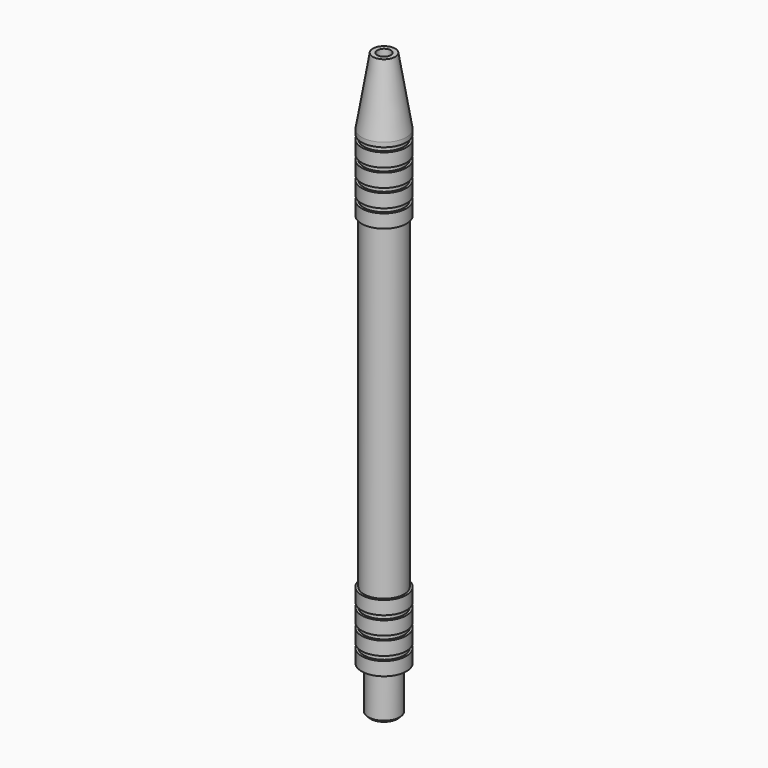
from build123d import *

# Parameters (mm, degrees)
F2_R     = 1.5
F3_DEPTH = 25
F4_SIZE  = 0.5


with BuildPart() as f1:
    # F0 (on Front) → F1 (revolve)
    with BuildSketch(Plane.XZ):
        Polygon((0, 130), (0, 0), (3.5, 0), (3.5, 10), (5, 10), (5, 13), (4.5, 13), (4.5, 14), (5, 14), (5, 17), (4.5, 17), (4.5, 18), (5, 18), (5, 21), (4.5, 21), (4.5, 22), (5, 22), (5, 25), (4.5, 25), (4.5, 98), (5, 98), (5, 101), (4.5, 101), (4.5, 102), (5, 102), (5, 105), (4.5, 105), (4.5, 106), (5, 106), (5, 109), (4.5, 109), (4.5, 110), (5, 110), (5, 113), (4.5, 113), (4.5, 114), (5, 114), (5, 115), (2.5, 130), align=None)
    revolve(axis=Axis((0, 0, 65), (0, 0, 1)))

    # F2 (on face) → F3 (cut)
    with BuildSketch(Plane.XY.offset(130)):
        Circle(F2_R)
    extrude(amount=-F3_DEPTH, mode=Mode.SUBTRACT)

    # F4
    f4_edges = [f1.edges().sort_by_distance(p)[0] for p in [
        (-3.5, 0, 0),
    ]]
    chamfer(f4_edges, length=F4_SIZE)


solid = f1.part
